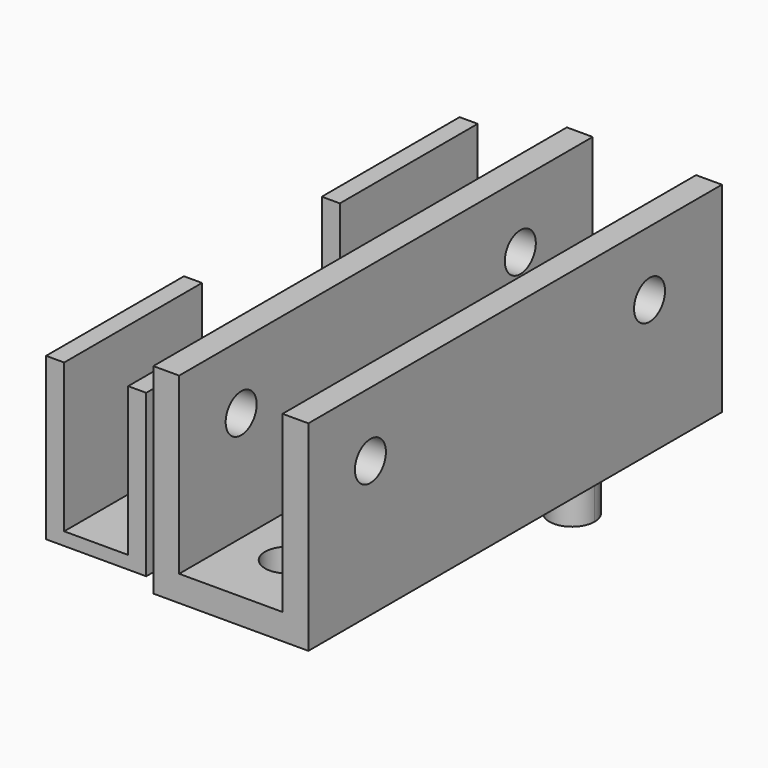
from build123d import *

# Parameters (mm, degrees)
F2_DEPTH  = 40
F3_DEPTH  = 40
F4_W      = 13.333334
F4_H      = 10
F5_DEPTH  = 8
F6_R      = 1.5
F7_DEPTH  = 2
F9_DEPTH  = 0.75
F10_DEPTH = 6
F11_R     = 1.5
F12_DEPTH = 12
F13_R     = 1.75
F14_DEPTH = 2


with BuildPart() as f2:
    # F0 (on Front) → F2 (new body)
    with BuildSketch(Plane.XZ):
        Polygon((1.57576, 0), (1.57576, 13.5), (-0.42424, 13.5), (-0.42424, -2), (11.57576, -2), (11.57576, 13.5), (9.57576, 13.5), (9.57576, 0), align=None)
    extrude(amount=F2_DEPTH)

    # F8 (on face) → F9 (join)
    with BuildSketch(Plane(origin=(0, 0, -2), x_dir=(1, 0, 0), z_dir=(0, 0, -1))):
        with BuildLine():
            ThreePointArc((7.32576, 7), (4.338323, 8.237437), (5.57576, 5.25))
            ThreePointArc((5.57576, 5.25), (6.813196, 5.762563), (7.32576, 7))
        make_face()
        with BuildLine():
            ThreePointArc((8.57576, 7), (3.454439, 9.12132), (5.57576, 4))
            ThreePointArc((5.57576, 4), (7.69708, 4.87868), (8.57576, 7))
        make_face()
        with BuildLine():
            ThreePointArc((7.32576, 7), (6.813196, 5.762563), (5.57576, 5.25))
            ThreePointArc((5.57576, 5.25), (4.338323, 8.237437), (7.32576, 7))
        make_face(mode=Mode.SUBTRACT)
    extrude(amount=F9_DEPTH)

    # F8 (on face) → F10 (join)
    with BuildSketch(Plane(origin=(0, 0, -2), x_dir=(1, 0, 0), z_dir=(0, 0, -1))):
        with BuildLine():
            ThreePointArc((7.32576, 7), (4.338323, 8.237437), (5.57576, 5.25))
            ThreePointArc((5.57576, 5.25), (6.813196, 5.762563), (7.32576, 7))
        make_face()
    extrude(amount=F10_DEPTH)

    # F11 (on face) → F12 (cut)
    with BuildSketch(Plane.YZ.offset(11.57576)):
        with Locations((-34, 8.5)):
            Circle(F11_R)
        with Locations((-7, 8.5)):
            Circle(F11_R)
    extrude(amount=-F12_DEPTH, mode=Mode.SUBTRACT)

    # F13 (on face) → F14 (cut)
    with BuildSketch(Plane(origin=(0, 0, -2), x_dir=(1, 0, 0), z_dir=(0, 0, -1))):
        with Locations((5.573067, 34.50406)):
            Circle(F13_R)
    extrude(amount=-F14_DEPTH, mode=Mode.SUBTRACT)


with BuildPart() as f3:
    # F1 (on Front) → F3 (new body)
    with BuildSketch(Plane.XZ):
        Polygon((-2.371435, 0), (-7.321435, 0), (-7.321435, 11.5), (-8.721435, 11.5), (-8.721435, -1), (-0.971435, -1), (-0.971435, 11.5), (-2.371435, 11.5), align=None)
    extrude(amount=F3_DEPTH)

    # F4 (on face) → F5 (cut)
    with BuildSketch(Plane(origin=(-8.721435, 0, 0), x_dir=(0, -1, 0), z_dir=(-1, 0, 0))):
        with Locations((20, 6.5)):
            Rectangle(F4_W, F4_H)
    extrude(amount=-F5_DEPTH, mode=Mode.SUBTRACT)

    # F6 (on face) → F7 (join)
    with BuildSketch(Plane(origin=(0, 0, -1), x_dir=(1, 0, 0), z_dir=(0, 0, -1))):
        with Locations((-4.846435, 34.5)):
            Circle(F6_R)
    extrude(amount=F7_DEPTH)


solid = Compound([f2.part, f3.part])
